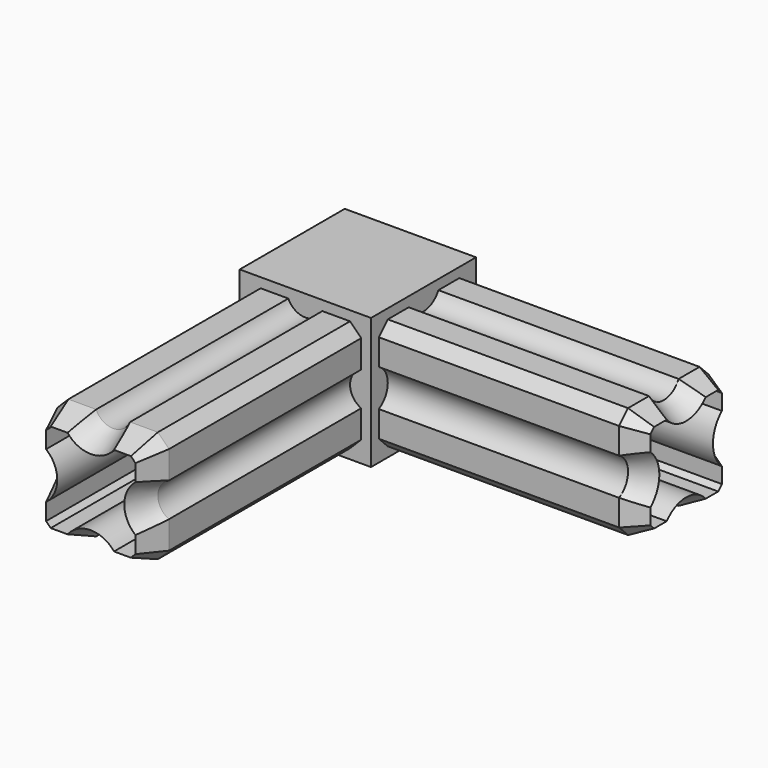
from build123d import *

# Parameters (mm, degrees)
F0_W      = 23.5
F0_H      = 23.5
F1_DEPTH  = 11.75
F2_W      = 20
F2_H      = 20
F3_DEPTH  = 47
F4_SIZE   = 2
F5_R      = 3.75
F6_DEPTH  = 47
F7_SIZE2  = 4
F7_SIZE   = 2
F8_W      = 20
F8_H      = 20
F9_DEPTH  = 48
F10_R     = 3.3166247904
F11_DEPTH = 48
F12_SIZE  = 2
F13_SIZE2 = 5
F13_SIZE  = 2
F14_DEPTH = 48
F15_DEPTH = 48


with BuildPart() as f1:
    # F0 (on Top) → F1 (new body, symmetric)
    with BuildSketch(Plane.XY):
        Rectangle(F0_W, F0_H)
    extrude(amount=F1_DEPTH, both=True)

    # F2 (on face) → F3 (join)
    with BuildSketch(Plane.YZ.offset(11.75)):
        Rectangle(F2_W, F2_H)
    extrude(amount=F3_DEPTH)

    # F4
    f4_edges = [f1.edges().sort_by_distance(p)[0] for p in [
        (35.25, -10, 10),
        (35.25, -10, -10),
        (35.25, 10, 10),
        (35.25, 10, -10),
    ]]
    chamfer(f4_edges, length=F4_SIZE)

    # F5 (on face) → F6 (cut, through all)
    with BuildSketch(Plane.YZ.offset(58.75)):
        with Locations((0, 11.75)):
            Circle(F5_R)
        with Locations((11.75, 0)):
            Circle(F5_R)
        with Locations((0, -11.75)):
            Circle(F5_R)
        with Locations((-11.75, 0)):
            Circle(F5_R)
    extrude(amount=-F6_DEPTH, mode=Mode.SUBTRACT)

    # F7
    f7_edges = [f1.edges().sort_by_distance(p)[0] for p in [
        (58.75, -9, -9),
        (58.75, -5.658312, -10),
        (58.75, 0, -8),
        (58.75, 5.658312, -10),
        (58.75, 9, -9),
        (58.75, 10, -5.658312),
        (58.75, 8, 0),
        (58.75, 10, 5.658312),
        (58.75, 9, 9),
        (58.75, 5.658312, 10),
        (58.75, 0, 8),
        (58.75, -5.658312, 10),
        (58.75, -9, 9),
        (58.75, -10, 5.658312),
        (58.75, -8, 0),
        (58.75, -10, -5.658312),
    ]]
    f7_side = f1.faces().sort_by_distance((58.75, 0, 0))[0]
    chamfer(f7_edges, length=F7_SIZE, length2=F7_SIZE2, reference=f7_side)

    # F8 (on face) → F9 (join)
    with BuildSketch(Plane.XZ.offset(11.75)):
        Rectangle(F8_W, F8_H)
    extrude(amount=F9_DEPTH)

    # F10 (on face) → F11 (cut)
    with BuildSketch(Plane.XZ.offset(59.75)):
        with Locations((11.3166247904, 0)):
            Circle(F10_R)
        with Locations((0, 11.3166247904)):
            Circle(F10_R)
        with Locations((-11.3166247904, 0)):
            Circle(F10_R)
        with Locations((0, -11.3166247904)):
            Circle(F10_R)
    extrude(amount=-F11_DEPTH, mode=Mode.SUBTRACT)

    # F12
    f12_edges = [f1.edges().sort_by_distance(p)[0] for p in [
        (10, -35.75, 10),
        (10, -35.75, -10),
        (-10, -35.75, 10),
        (-10, -35.75, -10),
    ]]
    chamfer(f12_edges, length=F12_SIZE)

    # F13
    f13_edges = [f1.edges().sort_by_distance(p)[0] for p in [
        (-10, -59.75, -5.522046),
        (-9, -59.75, -9),
        (-8, -59.75, 0),
        (-5.522046, -59.75, -10),
        (-10, -59.75, 5.522046),
        (0, -59.75, -8),
        (-9, -59.75, 9),
        (5.522046, -59.75, -10),
        (-5.522046, -59.75, 10),
        (9, -59.75, -9),
        (0, -59.75, 8),
        (10, -59.75, -5.522046),
        (5.522046, -59.75, 10),
        (8, -59.75, 0),
        (9, -59.75, 9),
        (10, -59.75, 5.522046),
    ]]
    f13_side = f1.faces().sort_by_distance((0, -59.75, 0))[0]
    chamfer(f13_edges, length=F13_SIZE, length2=F13_SIZE2, reference=f13_side)

    # F14 (cut): a face of the model
    f14_faces = [f1.faces().sort_by_distance(p)[0] for p in [
        (58.75, 0, 0),
    ]]
    extrude(f14_faces, amount=-F14_DEPTH, mode=Mode.SUBTRACT)

    # F15 (cut): a face of the model
    f15_faces = [f1.faces().sort_by_distance(p)[0] for p in [
        (0, -59.75, 0),
    ]]
    extrude(f15_faces, amount=-F15_DEPTH, mode=Mode.SUBTRACT)


solid = f1.part
